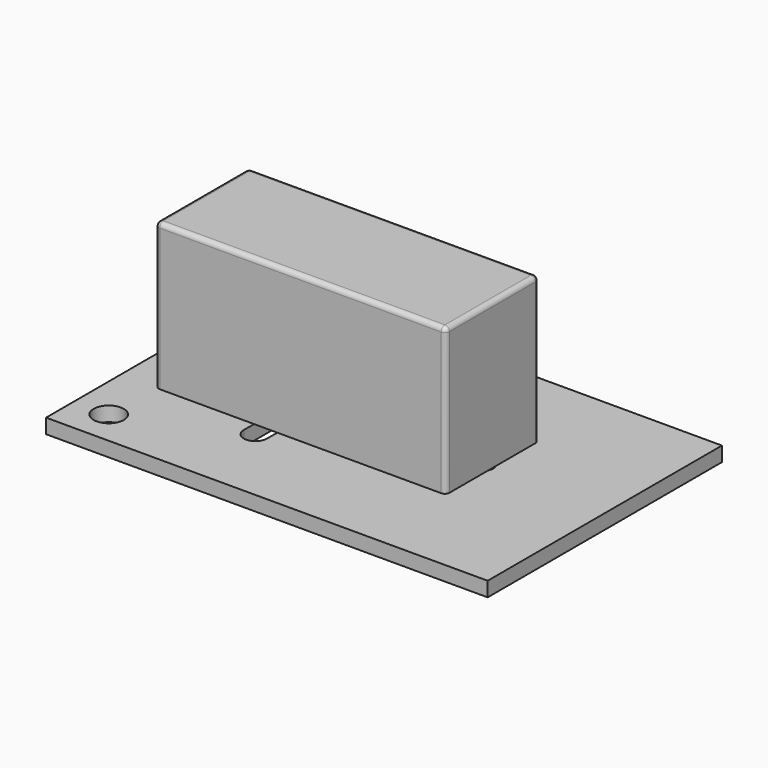
from build123d import *

# Parameters (mm, degrees)
F0_W     = 48.26
F0_H     = 32
F1_DEPTH = 1.6
F2_W     = 1.27
F2_H     = 12.73
F3_DEPTH = 1.601
F2_W_2   = 10.799
F4_DEPTH = 16
F5_R     = 0.5
F6_D     = 3.3


with BuildPart() as f1:
    # F0 (on Top) → F1 (new body)
    with BuildSketch(Plane.XY):
        Rectangle(F0_W, F0_H)
    extrude(amount=F1_DEPTH)

    # F2 (on face) → F3 (cut, through all)
    with BuildSketch(Plane.XY.offset(1.6)):
        with Locations((-8.89, 0.521)):
            Rectangle(F2_W, F2_H)
        with BuildLine():
            Line((-9.525, 8.253), (-9.525, 6.886))
            Line((-9.525, 6.886), (-8.255, 6.886))
            Line((-8.255, 6.886), (-8.255, 6.983))
            ThreePointArc((-8.255, 6.983), (-9.1530256121, 7.3549743879), (-9.525, 8.253))
        make_face()
        with BuildLine():
            ThreePointArc((-6.985, 8.253), (-8.255, 9.523), (-9.525, 8.253))
            ThreePointArc((-9.525, 8.253), (-9.1530256121, 7.3549743879), (-8.255, 6.983))
            ThreePointArc((-8.255, 6.983), (-7.3569743879, 7.3549743879), (-6.985, 8.253))
        make_face()
        with BuildLine():
            Line((-8.255, 6.983), (-8.255, 6.886))
            Line((-8.255, 6.886), (-6.985, 6.886))
            Line((-6.985, 6.886), (-6.985, 8.253))
            ThreePointArc((-6.985, 8.253), (-7.3569743879, 7.3549743879), (-8.255, 6.983))
        make_face()
        with BuildLine():
            Line((-6.985, 6.886), (-8.255, 6.886))
            Line((-8.255, 6.886), (-8.255, -5.844))
            Line((-8.255, -5.844), (-6.985, -5.844))
            Line((-6.985, -5.844), (-6.985, -0.764))
            Line((-6.985, -0.764), (10.287, -0.764))
            ThreePointArc((10.287, -0.764), (9.017, 0.506), (10.287, 1.776))
            Line((10.287, 1.776), (-6.985, 1.776))
            Line((-6.985, 1.776), (-6.985, 6.886))
        make_face()
        with BuildLine():
            Line((-6.985, -5.844), (-8.255, -5.844))
            Line((-8.255, -5.844), (-8.255, -5.971))
            ThreePointArc((-8.255, -5.971), (-7.3569743879, -6.3429743879), (-6.985, -7.241))
            Line((-6.985, -7.241), (-6.985, -5.844))
        make_face()
        with BuildLine():
            Line((-8.255, -5.844), (-9.525, -5.844))
            Line((-9.525, -5.844), (-9.525, -7.241))
            ThreePointArc((-9.525, -7.241), (-9.1530256121, -6.3429743879), (-8.255, -5.971))
            Line((-8.255, -5.971), (-8.255, -5.844))
        make_face()
        with BuildLine():
            ThreePointArc((-8.255, -5.971), (-9.1530256121, -6.3429743879), (-9.525, -7.241))
            ThreePointArc((-9.525, -7.241), (-8.255, -8.511), (-6.985, -7.241))
            ThreePointArc((-6.985, -7.241), (-7.3569743879, -6.3429743879), (-8.255, -5.971))
        make_face()
        with BuildLine():
            Line((11.43, -0.0475801658), (11.43, 1.0595801658))
            ThreePointArc((11.43, 1.0595801658), (10.9614824643, 1.5820917272), (10.287, 1.776))
            ThreePointArc((10.287, 1.776), (9.017, 0.506), (10.287, -0.764))
            ThreePointArc((10.287, -0.764), (10.9614824643, -0.5700917272), (11.43, -0.0475801658))
        make_face()
        with BuildLine():
            ThreePointArc((11.557, 0.506), (11.5248428818, 0.7899806331), (11.43, 1.0595801658))
            Line((11.43, 1.0595801658), (11.43, -0.0475801658))
            ThreePointArc((11.43, -0.0475801658), (11.5248428818, 0.2220193669), (11.557, 0.506))
        make_face()
    extrude(amount=-F3_DEPTH, mode=Mode.SUBTRACT)

    # F6 (through all)
    with Locations(Plane.XY.offset(1.6)):
        with Locations((-14.685, 11.348), (-20.324, -12.198)):
            Hole(F6_D / 2)


with BuildPart() as f4:
    # F2 (on face) → F4 (new body)
    with BuildSketch(Plane.XY.offset(1.6)):
        with Locations((-14.9245, 0.521)):
            Rectangle(F2_W_2, F2_H)
        with Locations((-8.89, 0.521)):
            Rectangle(F2_W, F2_H)
        with BuildLine():
            Line((-6.985, 6.886), (-8.255, 6.886))
            Line((-8.255, 6.886), (-8.255, -5.844))
            Line((-8.255, -5.844), (-6.985, -5.844))
            Line((-6.985, -5.844), (-6.985, -0.764))
            Line((-6.985, -0.764), (10.287, -0.764))
            ThreePointArc((10.287, -0.764), (9.017, 0.506), (10.287, 1.776))
            Line((10.287, 1.776), (-6.985, 1.776))
            Line((-6.985, 1.776), (-6.985, 6.886))
        make_face()
        with BuildLine():
            Line((11.43, 6.886), (-6.985, 6.886))
            Line((-6.985, 6.886), (-6.985, 1.776))
            Line((-6.985, 1.776), (10.287, 1.776))
            ThreePointArc((10.287, 1.776), (10.9614824643, 1.5820917272), (11.43, 1.0595801658))
            Line((11.43, 1.0595801658), (11.43, 6.886))
        make_face()
        with BuildLine():
            Line((11.43, -0.0475801658), (11.43, 1.0595801658))
            ThreePointArc((11.43, 1.0595801658), (10.9614824643, 1.5820917272), (10.287, 1.776))
            ThreePointArc((10.287, 1.776), (9.017, 0.506), (10.287, -0.764))
            ThreePointArc((10.287, -0.764), (10.9614824643, -0.5700917272), (11.43, -0.0475801658))
        make_face()
        with BuildLine():
            Line((-6.985, -0.764), (-6.985, -5.844))
            Line((-6.985, -5.844), (11.43, -5.844))
            Line((11.43, -5.844), (11.43, -0.0475801658))
            ThreePointArc((11.43, -0.0475801658), (10.9614824643, -0.5700917272), (10.287, -0.764))
            Line((10.287, -0.764), (-6.985, -0.764))
        make_face()
    extrude(amount=F4_DEPTH)

    # F5
    f5_edges = [f4.edges().sort_by_distance(p)[0] for p in [
        (-20.324, 0.521, 17.6),
        (-4.447, -5.844, 17.6),
        (11.43, 0.521, 17.6),
        (-4.447, 6.886, 17.6),
        (-20.324, -5.844, 9.6),
        (11.43, -5.844, 9.6),
        (11.43, 6.886, 9.6),
        (-20.324, 6.886, 9.6),
    ]]
    fillet(f5_edges, radius=F5_R)


solid = Compound([f1.part, f4.part])
